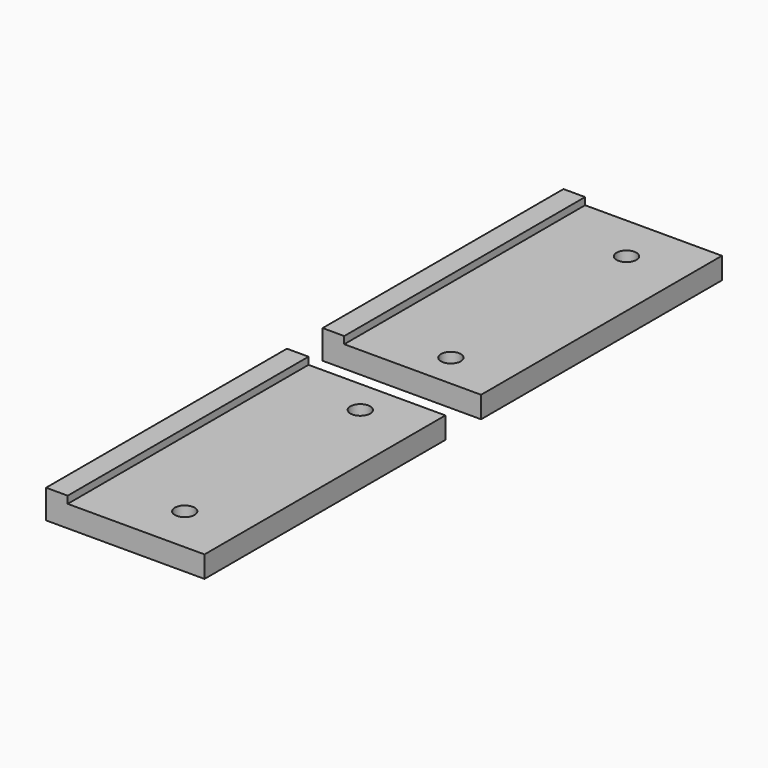
from build123d import *

# Parameters (mm, degrees)
F0_W     = 139.7
F0_H     = 265.43
F0_R     = 8.73125
F1_DEPTH = 19.05
F2_W     = 19.05
F2_H     = 265.43
F3_DEPTH = 6.35


with BuildPart() as f1:
    # F0 (on Top) → F1 (new body)
    with BuildSketch(Plane.XY):
        Rectangle(F0_W, F0_H)
        with Locations((19.05, -102.489)):
            Circle(F0_R, mode=Mode.SUBTRACT)
        with Locations((19.05, 91.059)):
            Circle(F0_R, mode=Mode.SUBTRACT)
    extrude(amount=F1_DEPTH)

    # F2 (on face) → F3 (join)
    with BuildSketch(Plane.XY.offset(19.05)):
        with Locations((-60.325, 0)):
            Rectangle(F2_W, F2_H)
    extrude(amount=F3_DEPTH)


with BuildPart() as f5_1:
    # F5: instance of F1
    add(f1.part.mirror(Plane.XZ.offset(152.4)))


solid = Compound([f1.part, f5_1.part])
